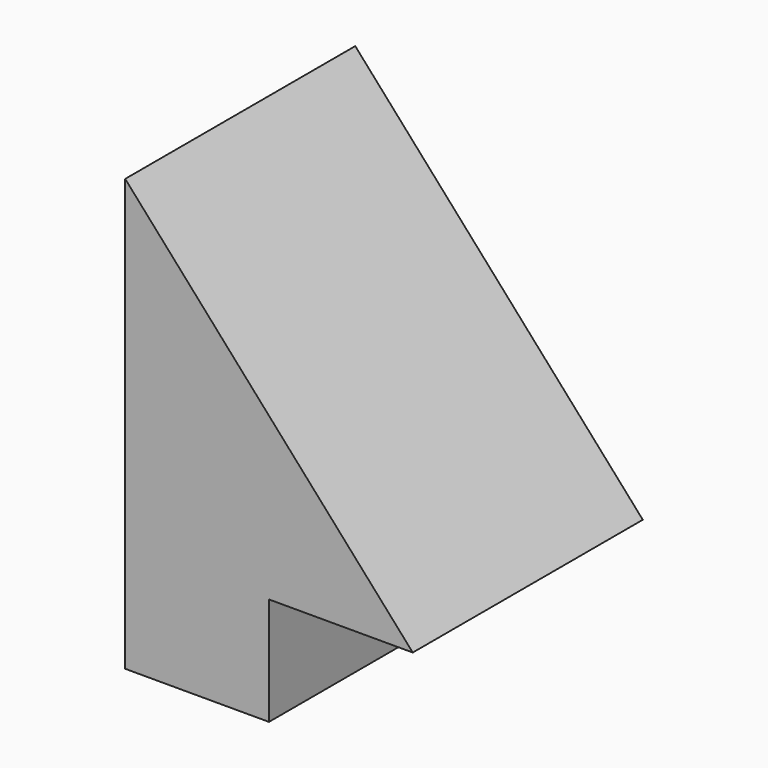
from build123d import *

# Parameters (mm, degrees)
F1_DEPTH = 101.6
F3_DEPTH = 63.5


with BuildPart() as f1:
    # F0 (on Front) → F1 (new body)
    with BuildSketch(Plane.XZ):
        Polygon((-61.3276321992, 97.2424396313), (-61.3276321992, -55.1575603687), (-10.5276321992, -55.1575603687), (-10.5276321992, -17.0575603687), (40.2723678008, -17.0575603687), align=None)
    extrude(amount=F1_DEPTH)

    # F2 (on face) → F3 (cut)
    with BuildSketch(Plane(origin=(0, 0, 0), x_dir=(-1, 0, 0), z_dir=(0, 1, 0))):
        Polygon((61.3276321992, 78.1264082375), (61.3276321992, 87.6844239344), (2.2656869272, 21.2397355034), (7.0117361009, 17.0210251268), align=None)
    extrude(amount=-F3_DEPTH, mode=Mode.SUBTRACT)


solid = f1.part
